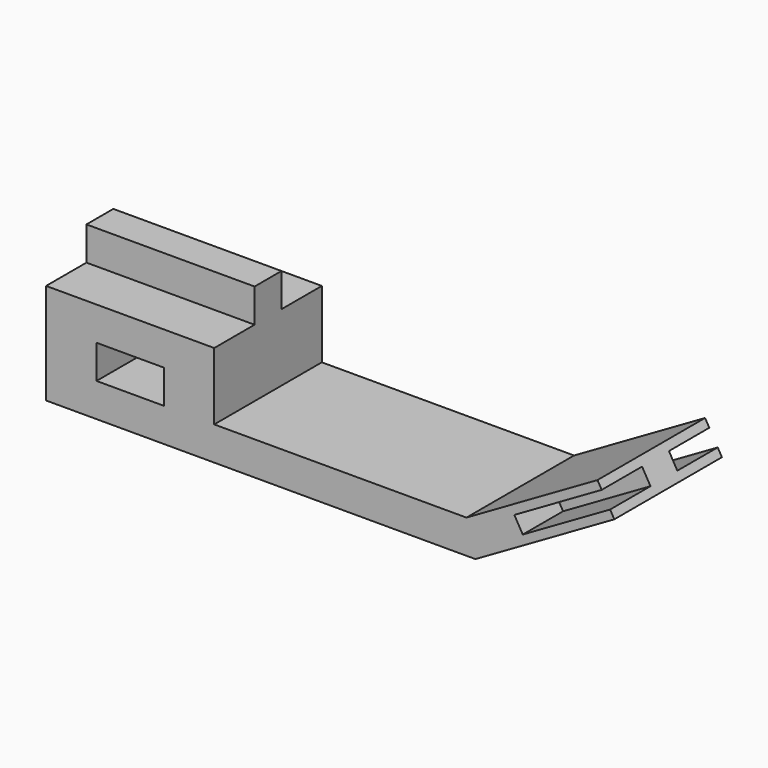
from build123d import *

# Parameters (mm, degrees)
F0_W     = 20
F0_H     = 10
F1_DEPTH = 20
F0_W_2   = 50
F2_DEPTH = 5
F4_DEPTH = 15


with BuildPart() as f1:
    # F0 (on Front) → F1 (new body)
    with BuildSketch(Plane.XZ):
        Polygon((50, 30), (0, 30), (0, 0), (127.679492, 0), (168.971143, 23.839746), (163.971143, 32.5), (125, 10), (50, 10), align=None)
        with Locations((25, 15)):
            Rectangle(F0_W, F0_H, mode=Mode.SUBTRACT)
    extrude(amount=F1_DEPTH)

    # F0 (on Front) → F2 (join)
    with BuildSketch(Plane.XZ):
        with Locations((25, 35)):
            Rectangle(F0_W_2, F0_H)
    extrude(amount=F2_DEPTH)

    # F3 (on face) → F4 (cut)
    with BuildSketch(Plane.XZ.offset(20)):
        Polygon((167.721143, 26.004809), (165.221143, 30.334936), (139.240381, 15.334936), (141.740381, 11.004809), align=None)
    extrude(amount=-F4_DEPTH, mode=Mode.SUBTRACT)

    # F5: F1 across plane


with BuildPart() as f1_1:
    add(f1.part)
    add(f1.part.mirror(Plane.XZ))


solid = f1_1.part
